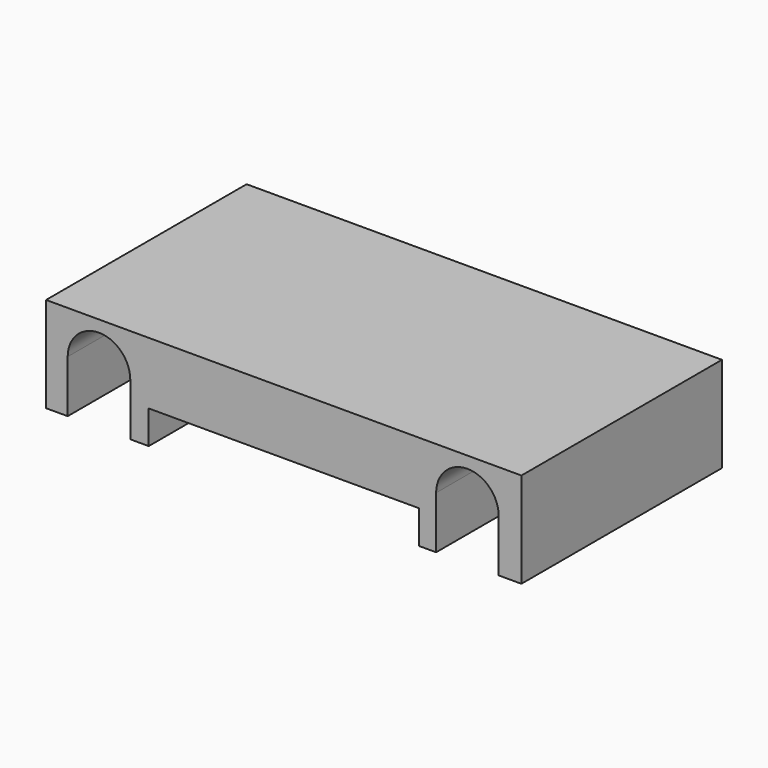
from build123d import *

# Parameters (mm, degrees)
F0_W          = 88
F0_H          = 46.4
F1_DEPTH      = 17.65
F2_W          = 50
F2_H          = 46.4
F3_DEPTH      = 6.15
F5_DEPTH      = 23.201
F5_DEPTH_BACK = 23.201


with BuildPart() as f1:
    # F0 (on Top) → F1 (new body)
    with BuildSketch(Plane.XY):
        Rectangle(F0_W, F0_H)
    extrude(amount=-F1_DEPTH)

    # F2 (on face) → F3 (cut)
    with BuildSketch(Plane(origin=(0, 0, -17.65), x_dir=(1, 0, 0), z_dir=(0, 0, -1))):
        Rectangle(F2_W, F2_H)
    extrude(amount=-F3_DEPTH, mode=Mode.SUBTRACT)

    # F4 (on Front) → F5 (cut, two sides)
    with BuildSketch(Plane.XZ) as f5_sk:
        with BuildLine():
            Line((-40, -7.95), (-40, -17.65))
            Line((-40, -17.65), (-28.41, -17.65))
            Line((-28.41, -17.65), (-28.41, -7.95))
            ThreePointArc((-28.41, -7.95), (-34.205, -2.155), (-40, -7.95))
        make_face()
        with BuildLine():
            Line((28.21, -7.95), (28.21, -17.65))
            Line((28.21, -17.65), (39.8, -17.65))
            Line((39.8, -17.65), (39.8, -7.95))
            ThreePointArc((39.8, -7.95), (34.005, -2.155), (28.21, -7.95))
        make_face()
    extrude(amount=-F5_DEPTH, mode=Mode.SUBTRACT)
    extrude(f5_sk.sketch, amount=F5_DEPTH_BACK, mode=Mode.SUBTRACT)


solid = f1.part
